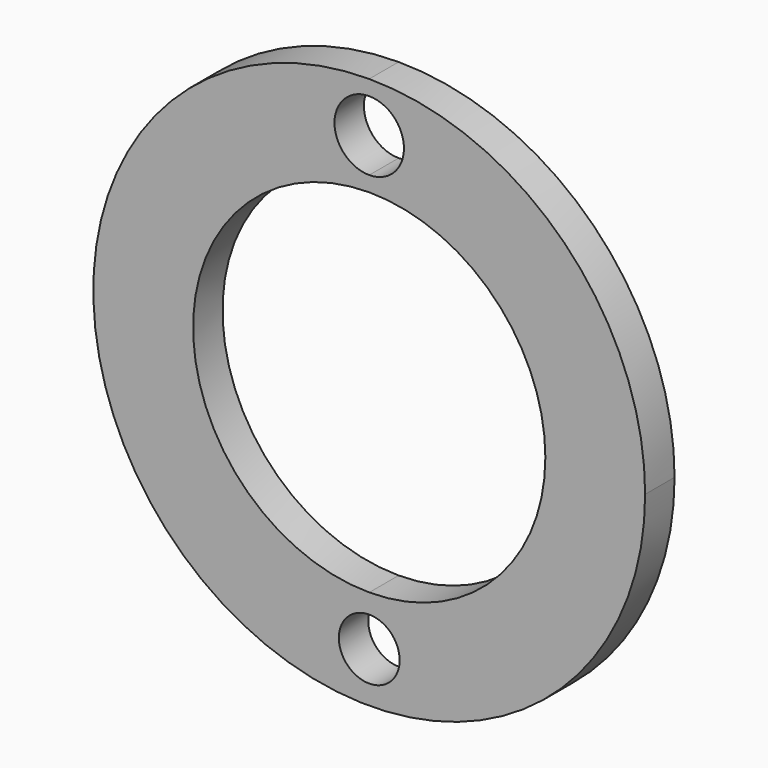
from build123d import *

# Parameters (mm, degrees)
F1_DEPTH = 4


with BuildPart() as f1:
    # F0 (on Front) → F1 (new body)
    with BuildSketch(Plane.XZ):
        with BuildLine():
            ThreePointArc((0, 30), (-21.213203, -21.213203), (30, 0))
            ThreePointArc((30, 0), (21.213203, 21.213203), (0, 30))
        make_face()
        with BuildLine():
            ThreePointArc((3.305106, -24.57), (-2.337063, -26.907063), (0, -21.264894))
            ThreePointArc((0, -21.264894), (2.337063, -22.232937), (3.305106, -24.57))
        make_face(mode=Mode.SUBTRACT)
        with BuildLine():
            ThreePointArc((0, -19.15), (-19.15, 0), (0, 19.15))
            ThreePointArc((0, 19.15), (13.541095, 13.541095), (19.15, 0))
            ThreePointArc((19.15, 0), (13.541095, -13.541095), (0, -19.15))
        make_face(mode=Mode.SUBTRACT)
        with BuildLine():
            ThreePointArc((0, 20.799246), (-3.775754, 24.575), (0, 28.350754))
            ThreePointArc((0, 28.350754), (2.669861, 27.244861), (3.775754, 24.575))
            ThreePointArc((3.775754, 24.575), (2.669861, 21.905139), (0, 20.799246))
        make_face(mode=Mode.SUBTRACT)
    extrude(amount=F1_DEPTH)


solid = f1.part
